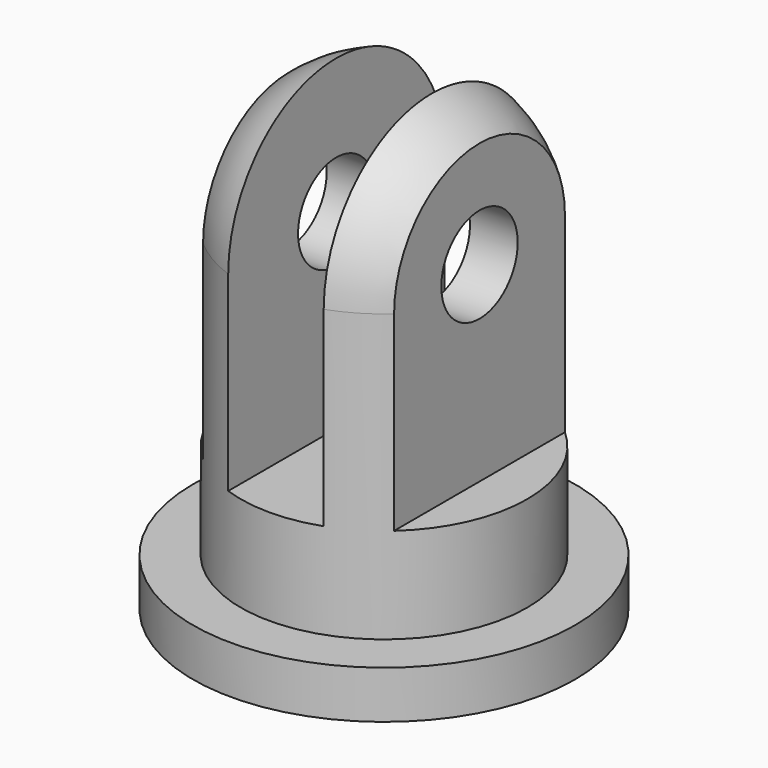
from build123d import *

# Parameters (mm, degrees)
F0_R     = 4
F1_DEPTH = 1
F2_R     = 3
F3_DEPTH = 9
F4_R     = 3
F5_W     = 1.553406
F5_H     = 7.626691
F5_W_2   = 1.64837
F5_H_2   = 7.70761
F6_DEPTH = 5.5
F7_R     = 1
F8_DEPTH = 25


with BuildPart() as f1:
    # F0 (on Top) → F1 (new body)
    with BuildSketch(Plane.XY):
        Circle(F0_R)
    extrude(amount=F1_DEPTH)

    # F2 (on face) → F3 (join)
    with BuildSketch(Plane.XY.offset(1)):
        Circle(F2_R)
    extrude(amount=F3_DEPTH)

    # F4
    f4_edges = [f1.edges().sort_by_distance(p)[0] for p in [
        (-3, 0, 10),
    ]]
    fillet(f4_edges, radius=F4_R)

    # F5 (on Front) → F6 (cut, symmetric)
    with BuildSketch(Plane.XZ):
        Polygon((-1, 3), (0, 3), (1, 3), (1, 10.663929), (-1, 10.663929), align=None)
        with Locations((2.776703, 6.813345)):
            Rectangle(F5_W, F5_H)
        with Locations((-2.824185, 6.853805)):
            Rectangle(F5_W_2, F5_H_2)
    extrude(amount=F6_DEPTH, both=True, mode=Mode.SUBTRACT)

    # F7 (on face) → F8 (cut)
    with BuildSketch(Plane(origin=(-2, 0, 0), x_dir=(0, -1, 0), z_dir=(-1, 0, 0))):
        with Locations((0, 7)):
            Circle(F7_R)
    extrude(amount=-F8_DEPTH, mode=Mode.SUBTRACT)


solid = f1.part
